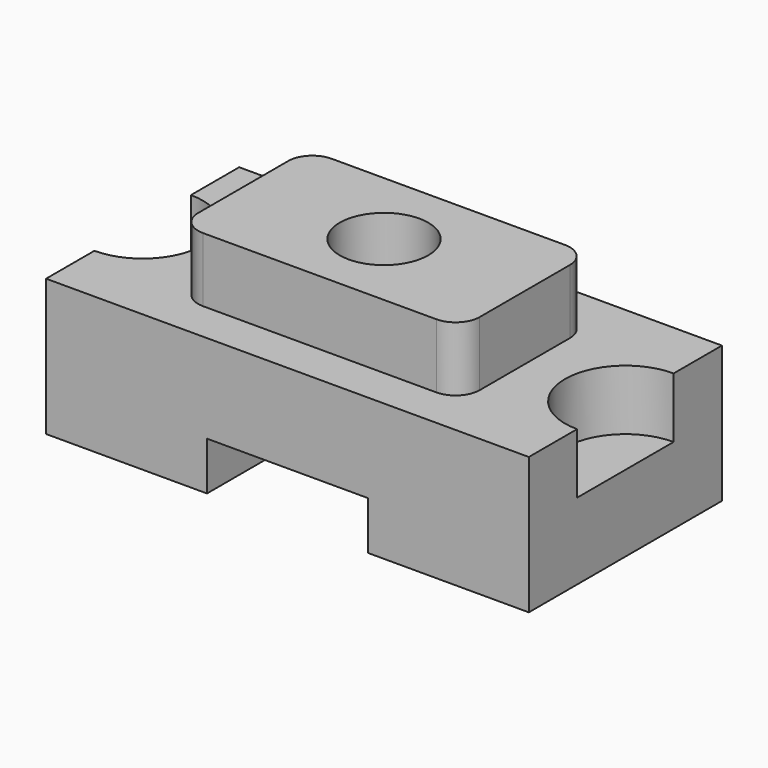
from build123d import *

# Parameters (mm, degrees)
F0_W     = 3048
F0_H     = 1524
F1_DEPTH = 863.6
F3_DEPTH = 406.4
F4_R     = 279.4
F5_DEPTH = 1270.001
F7_DEPTH = 381
F8_W     = 1016
F8_H     = 304.8
F9_DEPTH = 1524.001


with BuildPart() as f1:
    # F0 (on Top) → F1 (new body)
    with BuildSketch(Plane.XY):
        Rectangle(F0_W, F0_H)
    extrude(amount=F1_DEPTH)

    # F2 (on face) → F3 (join)
    with BuildSketch(Plane.XY.offset(863.6)):
        with BuildLine():
            Line((-736.6, -508), (736.6, -508))
            ThreePointArc((736.6, -508), (844.363073, -463.363073), (889, -355.6))
            Line((889, -355.6), (889, 355.6))
            ThreePointArc((889, 355.6), (844.363073, 463.363073), (736.6, 508))
            Line((736.6, 508), (-736.6, 508))
            ThreePointArc((-736.6, 508), (-844.363073, 463.363073), (-889, 355.6))
            Line((-889, 355.6), (-889, -355.6))
            ThreePointArc((-889, -355.6), (-844.363073, -463.363073), (-736.6, -508))
        make_face()
    extrude(amount=F3_DEPTH)

    # F4 (on face) → F5 (cut, through all)
    with BuildSketch(Plane.XY.offset(1270)):
        Circle(F4_R)
    extrude(amount=-F5_DEPTH, mode=Mode.SUBTRACT)

    # F6 (on face) → F7 (cut)
    with BuildSketch(Plane.XY.offset(863.6)):
        with BuildLine():
            Line((-1524, 381), (-1524, -381))
            ThreePointArc((-1524, -381), (-1143, 0), (-1524, 381))
        make_face()
        with BuildLine():
            Line((1524, -381), (1524, 381))
            ThreePointArc((1524, 381), (1143, 0), (1524, -381))
        make_face()
    extrude(amount=-F7_DEPTH, mode=Mode.SUBTRACT)

    # F8 (on face) → F9 (cut, through all)
    with BuildSketch(Plane.XZ.offset(762)):
        with Locations((0, 152.4)):
            Rectangle(F8_W, F8_H)
    extrude(amount=-F9_DEPTH, mode=Mode.SUBTRACT)


solid = f1.part
